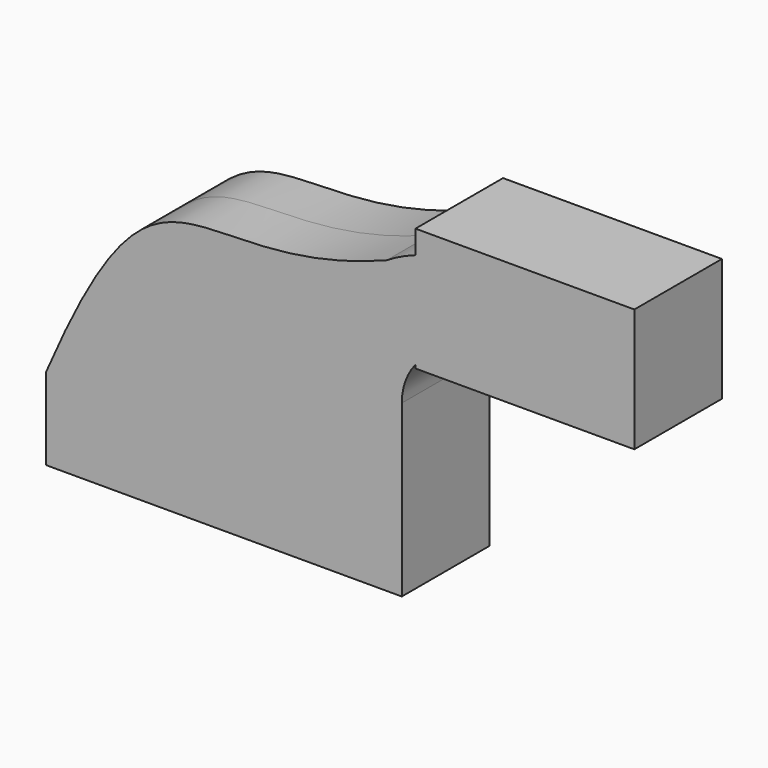
from build123d import *

# Parameters (mm, degrees)
F1_DEPTH = 12.7


with BuildPart() as f1:
    # F0 (on Front) → F1 (new body, symmetric)
    with BuildSketch(Plane.XZ):
        Polygon((41.275, -9.525), (41.275, 9.525), (22.225, 9.525), (-41.275, 9.525), (-41.275, -9.525), align=None)
        with BuildLine():
            Line((22.225, 9.525), (41.275, 9.525))
            Line((41.275, 9.525), (41.275, 29.9960146104))
            ThreePointArc((41.275, 29.9960146104), (42.0925706177, 34.7154564083), (44.45, 38.8848783473))
            Line((44.45, 38.8848783473), (44.45, 60.8874083752))
            add(Edge.make_bspline(
                [(37.7445000859, 58.030370923), (39.8906045522, 58.8697737443), (42.1237209602, 59.8172902867), (44.45, 60.8874083752)],
                knots=[96.4812787351, 96.4812787351, 96.4812787351, 96.4812787351, 100.9614575519, 100.9614575519, 100.9614575519, 100.9614575519], degree=3))
            ThreePointArc((37.7445000859, 58.030370923), (26.3637831356, 46.0177187705), (22.225, 29.9960146104))
            Line((22.225, 29.9960146104), (22.225, 9.525))
        make_face()
        with BuildLine():
            Line((-41.275, 9.525), (22.225, 9.525))
            Line((22.225, 9.525), (22.225, 29.9960146104))
            ThreePointArc((22.225, 29.9960146104), (26.3637831356, 46.0177187705), (37.7445000859, 58.030370923))
            add(Edge.make_bspline(
                [(-41.275, 9.525), (-14.335966035, 72.016119976), (-8.4721603824, 39.953713522), (37.7445000859, 58.030370923)],
                knots=[0, 0, 0, 0, 96.4812787351, 96.4812787351, 96.4812787351, 96.4812787351], degree=3))
        make_face()
        with BuildLine():
            ThreePointArc((60.8709655828, 42.8752), (51.9923406212, 43.6295768141), (44.45, 38.8848783473))
            Line((44.45, 38.8848783473), (44.45, 38.1))
            Line((44.45, 38.1), (69.85, 38.1))
            Line((69.85, 38.1), (69.85, 42.8752))
            Line((69.85, 42.8752), (60.8709655828, 42.8752))
        make_face()
        with BuildLine():
            Line((44.45, 60.8874083752), (44.45, 38.8848783473))
            ThreePointArc((44.45, 38.8848783473), (51.9923406212, 43.6295768141), (60.8709655828, 42.8752))
            Line((60.8709655828, 42.8752), (69.85, 42.8752))
            Line((69.85, 42.8752), (69.85, 66.675))
            Line((69.85, 66.675), (44.45, 66.675))
            Line((44.45, 66.675), (44.45, 61.2445272108))
            ThreePointArc((44.45, 61.2445272108), (45.5463732344, 61.6040905902), (46.6546190734, 61.9252))
            add(Edge.make_bspline(
                [(44.45, 60.8874083752), (45.1757433398, 61.2212595866), (45.9105541104, 61.5670434905), (46.6546190734, 61.9252)],
                knots=[100.9614575519, 100.9614575519, 100.9614575519, 100.9614575519, 102.3591660304, 102.3591660304, 102.3591660304, 102.3591660304], degree=3))
        make_face()
        with BuildLine():
            ThreePointArc((44.45, 61.2445272108), (41.0066504008, 59.8264616221), (37.7445000859, 58.030370923))
            add(Edge.make_bspline(
                [(37.7445000859, 58.030370923), (39.8906045522, 58.8697737443), (42.1237209602, 59.8172902867), (44.45, 60.8874083752)],
                knots=[96.4812787351, 96.4812787351, 96.4812787351, 96.4812787351, 100.9614575519, 100.9614575519, 100.9614575519, 100.9614575519], degree=3))
            Line((44.45, 60.8874083752), (44.45, 61.2445272108))
        make_face()
        with BuildLine():
            Line((44.45, 61.2445272108), (44.45, 60.8874083752))
            add(Edge.make_bspline(
                [(44.45, 60.8874083752), (45.1757433398, 61.2212595866), (45.9105541104, 61.5670434905), (46.6546190734, 61.9252)],
                knots=[100.9614575519, 100.9614575519, 100.9614575519, 100.9614575519, 102.3591660304, 102.3591660304, 102.3591660304, 102.3591660304], degree=3))
            ThreePointArc((46.6546190734, 61.9252), (45.5463732344, 61.6040905902), (44.45, 61.2445272108))
        make_face()
        Polygon((69.85, 42.8752), (69.85, 38.1), (95.25, 38.1), (95.25, 66.675), (69.85, 66.675), align=None)
    extrude(amount=F1_DEPTH, both=True)


solid = f1.part
